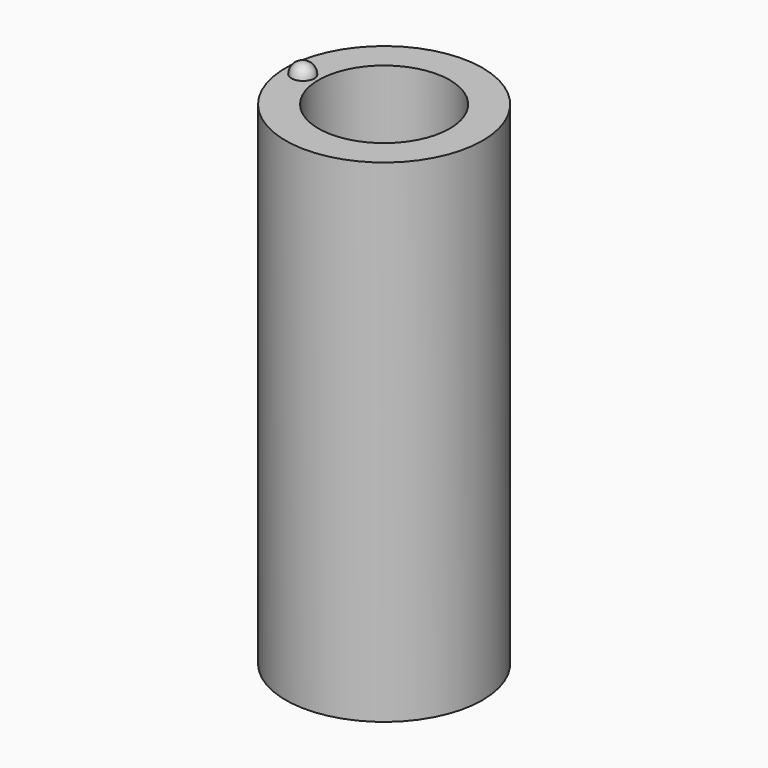
from build123d import *

# Parameters (mm, degrees)
F0_R     = 14.99850186
F1_DEPTH = 75
F2_R     = 10.0009319262
F3_DEPTH = 30
F6_R     = 9.499189543
F7_DEPTH = 37.5


with BuildPart() as f1:
    # F0 (on Top) → F1 (new body)
    with BuildSketch(Plane.XY):
        Circle(F0_R)
    extrude(amount=F1_DEPTH)

    # F2 (on face) → F3 (cut)
    with BuildSketch(Plane.XY.offset(75)):
        Circle(F2_R)
    extrude(amount=-F3_DEPTH, mode=Mode.SUBTRACT)

    # F4 (on face) → F5 (revolve)
    with BuildSketch(Plane.XY.offset(75)):
        with BuildLine():
            Line((-14.1484253109, 0), (-10.6227491051, 0))
            ThreePointArc((-10.6227491051, 0), (-12.385587208, 1.7143038731), (-14.1484253109, 0))
        make_face()
    revolve(axis=Axis((-12.385587208, 0, 75), (-1, 0, 0)))

    # F6 (on face) → F7 (cut)
    with BuildSketch(Plane(origin=(0, 0, 0), x_dir=(1, 0, 0), z_dir=(0, 0, -1))):
        Circle(F6_R)
    extrude(amount=-F7_DEPTH, mode=Mode.SUBTRACT)


solid = f1.part
